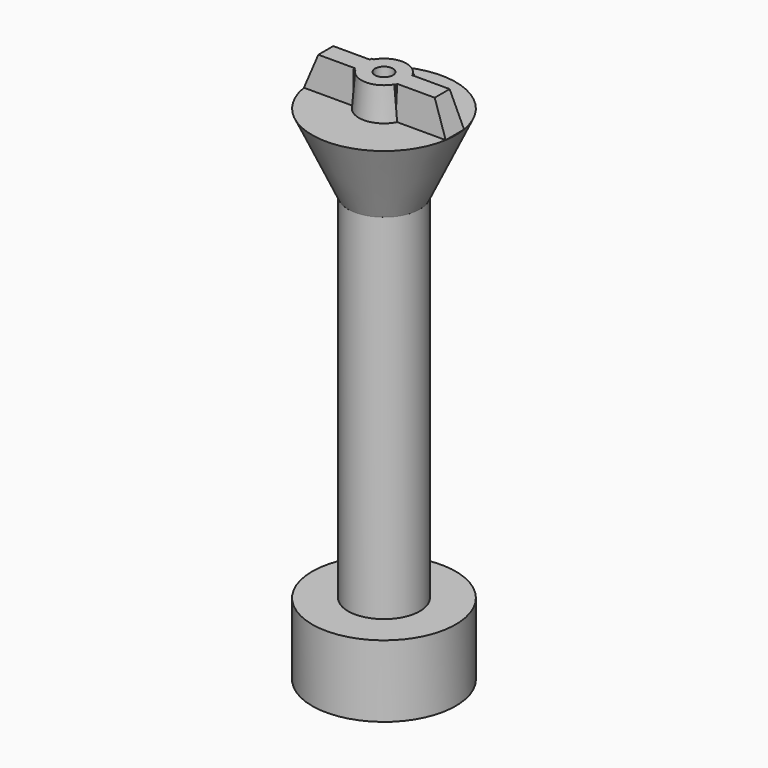
from build123d import *

# Parameters (mm, degrees)
F3_DEPTH  = 4.5
F6_DEPTH  = 7.82
F9_DEPTH  = 7.71
F12_DEPTH = 25


with BuildPart() as f1:
    # F0 (on Front) → F1 (revolve)
    with BuildSketch(Plane.XZ):
        Polygon((-10, 0), (-1.25, 0), (-1.25, 74.5), (-3.15, 74.5), (-3.5, 70), (-10, 70), (-5, 59.2774653975), (-5, 10), (-10, 10), align=None)
    revolve(axis=Axis((0, 0, 54.2438514531), (0, 0, 1)))

    # F2 (on face) → F3 (join)
    with BuildSketch(Plane.XY.offset(70)):
        with BuildLine():
            Line((-3.1128764833, 1.6), (-9.8711701434, 1.6))
            ThreePointArc((-9.8711701434, 1.6), (-10, 0), (-9.8711701434, -1.6))
            Line((-9.8711701434, -1.6), (-3.1128764833, -1.6))
            Line((-3.1128764833, -1.6), (-2.7133927102, -1.6))
            ThreePointArc((-2.7133927102, -1.6), (-3.15, 0), (-2.7133927102, 1.6))
            Line((-2.7133927102, 1.6), (-3.1128764833, 1.6))
        make_face()
        with BuildLine():
            Line((9.8711701434, 1.6), (3.1128764833, 1.6))
            Line((3.1128764833, 1.6), (2.7133927102, 1.6))
            ThreePointArc((2.7133927102, 1.6), (3.15, 0), (2.7133927102, -1.6))
            Line((2.7133927102, -1.6), (3.1128764833, -1.6))
            Line((3.1128764833, -1.6), (9.8711701434, -1.6))
            ThreePointArc((9.8711701434, -1.6), (10, 0), (9.8711701434, 1.6))
        make_face()
    extrude(amount=F3_DEPTH)

    # F5 (on offset) → F6 (cut)
    with BuildSketch(Plane.YZ.offset(10.7)):
        Polygon((-1.6, 70), (-1.3, 74.5), (-1.6, 74.5), align=None)
        Polygon((1.6, 74.5), (1.3, 74.5), (1.6, 70), align=None)
    extrude(amount=-F6_DEPTH, mode=Mode.SUBTRACT)

    # F8 (on offset) → F9 (cut)
    with BuildSketch(Plane.YZ.offset(-10.7)):
        Polygon((1.6, 70), (1.6, 74.5), (1.3, 74.5), align=None)
        Polygon((-1.3, 74.5), (-1.6, 74.5), (-1.6, 70), align=None)
    extrude(amount=F9_DEPTH, mode=Mode.SUBTRACT)

    # F11 (on offset) → F12 (cut)
    with BuildSketch(Plane.XZ.offset(10)):
        Polygon((-10.2594941854, 70), (-9.8711701434, 70), (-7.9456651583, 74.9055147171), (-10.5508649722, 74.9055147171), align=None)
        Polygon((7.9456651583, 74.9055147171), (9.8711701434, 70), (10.2594941854, 70), (10.5508649722, 74.9055147171), align=None)
    extrude(amount=-F12_DEPTH, mode=Mode.SUBTRACT)


solid = f1.part
